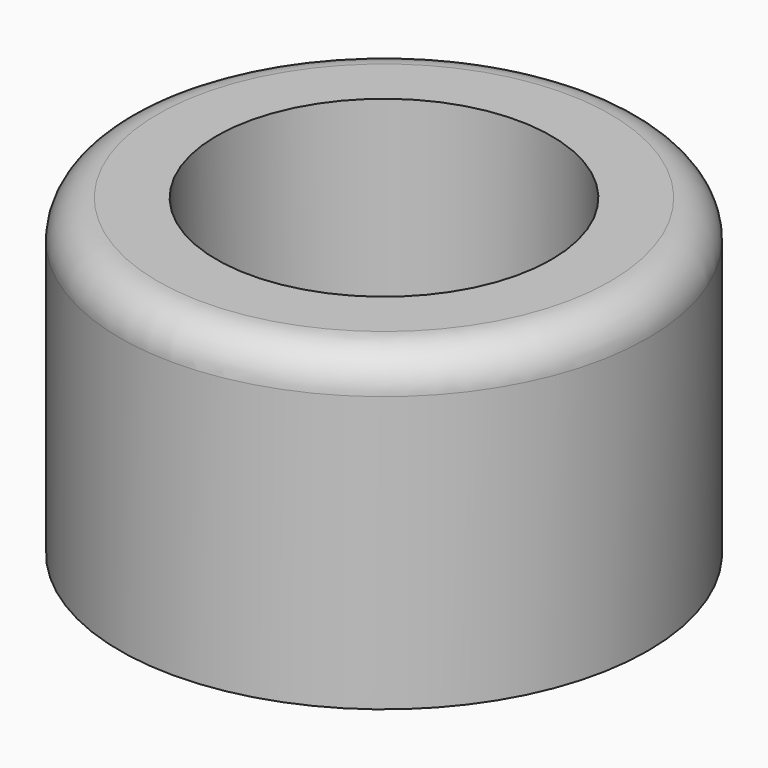
from build123d import *

# Parameters (mm, degrees)
F0_R     = 35
F0_R_2   = 31.45
F1_DEPTH = 38
F0_R_3   = 29.15
F2_DEPTH = 3.5
F3_R     = 22.2
F4_DEPTH = 25
F5_R     = 25.5
F5_R_2   = 22.2
F6_DEPTH = 35
F7_R     = 29.15
F7_R_2   = 25.5
F8_DEPTH = 35
F9_R     = 5
F10_R    = 5


with BuildPart() as f1:
    # F0 (on Top) → F1 (new body)
    with BuildSketch(Plane.XY):
        Circle(F0_R)
        Circle(F0_R_2, mode=Mode.SUBTRACT)
    extrude(amount=-F1_DEPTH)

    # F0 (on Top) → F2 (join)
    with BuildSketch(Plane.XY):
        Circle(F0_R)
        Circle(F0_R_2, mode=Mode.SUBTRACT)
        Circle(F0_R_2)
        Circle(F0_R_3, mode=Mode.SUBTRACT)
        Circle(F0_R_3)
    extrude(amount=F2_DEPTH)

    # F3 (on face) → F4 (cut)
    with BuildSketch(Plane.XY.offset(3.5)):
        Circle(F3_R)
    extrude(amount=-F4_DEPTH, mode=Mode.SUBTRACT)

    # F5 (on face) → F6 (join)
    with BuildSketch(Plane.XY):
        Circle(F5_R)
        Circle(F5_R_2, mode=Mode.SUBTRACT)
    extrude(amount=-F6_DEPTH)

    # F7 (on face) → F8 (join, through all)
    with BuildSketch(Plane.XY):
        Circle(F7_R)
        Circle(F7_R_2, mode=Mode.SUBTRACT)
    extrude(amount=-F8_DEPTH)

    # F9
    f9_edges = [f1.edges().sort_by_distance(p)[0] for p in [
        (-35, 0, 3.5),
    ]]
    fillet(f9_edges, radius=F9_R)

    # F10
    f10_edges = [f1.edges().sort_by_distance(p)[0] for p in [
        (-29.15, 0, -35),
    ]]
    fillet(f10_edges, radius=F10_R)


solid = f1.part
